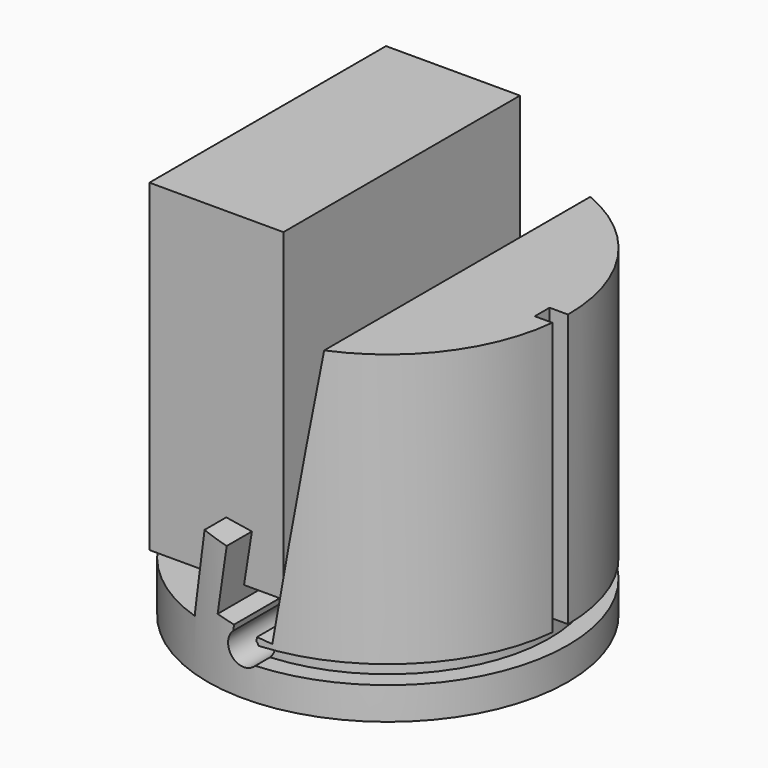
from build123d import *

# Parameters (mm, degrees)
BOX003_W                    = 29
BOX003_H                    = 64
BOX003_DEPTH                = 70
BOX006_W                    = 20
BOX006_H                    = 79
BOX006_DEPTH                = 44
BOX006_PLACEMENT_ANGLE      = 9
BOX_W                       = 12
BOX_H                       = 78
BOX_DEPTH                   = 150
BOX_PLACEMENT_ANGLE         = 9
BOX001_W                    = 12
BOX001_H                    = 78
BOX001_DEPTH                = 150
BOX001_PLACEMENT_ANGLE      = 9
BOX002_W                    = 29
BOX002_H                    = 78
BOX002_DEPTH                = 150
CYLINDER004_R               = 16
CYLINDER004_DEPTH           = 36
CYLINDER004_PLACEMENT_ANGLE = 20
CYLINDER001_R               = 3.5
CYLINDER001_DEPTH           = 47
BOX005_W                    = 5
BOX005_H                    = 45
BOX005_DEPTH                = 10
BOX005_PLACEMENT_ANGLE      = 9
CYLINDER003_R               = 35
CYLINDER003_DEPTH           = 4
BOX004_W                    = 4
BOX004_H                    = 4
BOX004_DEPTH                = 83
CYLINDER002_W               = 39
CYLINDER002_H               = 4
CYLINDER002_ANGLE           = 180
CYLINDER_R                  = 39
CYLINDER_DEPTH              = 70


with BuildPart() as front_hole_small:
    # Box003 → Box003 (new body)
    with BuildSketch(Plane(origin=(-26, -32, 17), x_dir=(1, 0, 0), z_dir=(0, 0, 1))):
        with Locations((14.5, 32)):
            Rectangle(BOX003_W, BOX003_H)
    extrude(amount=BOX003_DEPTH)


with BuildPart() as arm_cutter:
    # Box006 → Box006 (new body)
    with BuildSketch(Plane.XY):
        with Locations((10, 39.5)):
            Rectangle(BOX006_W, BOX006_H)
    extrude(amount=BOX006_DEPTH)


with BuildPart() as arm_cutter_1:
    # Box006 placement: moved
    add(arm_cutter.part.moved(Location((-18, -40, 30))).rotate(Axis((-18, -40, 30), (0, 1, 0)), BOX006_PLACEMENT_ANGLE))


with BuildPart() as phone_model:
    # Box → Box (new body)
    with BuildSketch(Plane.XY):
        with Locations((6, 39)):
            Rectangle(BOX_W, BOX_H)
    extrude(amount=BOX_DEPTH)


with BuildPart() as phone_model_1:
    # Box placement: moved
    add(phone_model.part.moved(Location((-6, -39, 14))).rotate(Axis((-6, -39, 14), (0, 1, 0)), BOX_PLACEMENT_ANGLE))


with BuildPart() as front_hole:
    # Box001 → Box001 (new body)
    with BuildSketch(Plane.XY):
        with Locations((6, 39)):
            Rectangle(BOX001_W, BOX001_H)
    extrude(amount=BOX001_DEPTH)


with BuildPart() as front_hole_1:
    # Box001 placement: moved
    add(front_hole.part.moved(Location((-24, -39, 13))).rotate(Axis((-24, -39, 13), (0, 1, 0)), BOX001_PLACEMENT_ANGLE))


with BuildPart() as front_hole_big:
    # Box002 → Box002 (new body)
    with BuildSketch(Plane(origin=(-41, -39, 11), x_dir=(1, 0, 0), z_dir=(0, 0, 1))):
        with Locations((14.5, 39)):
            Rectangle(BOX002_W, BOX002_H)
    extrude(amount=BOX002_DEPTH)


with BuildPart() as holes:
    # Cylinder004 → Cylinder004 (new body)
    with BuildSketch(Plane.XY):
        Circle(CYLINDER004_R)
    extrude(amount=CYLINDER004_DEPTH)


with BuildPart() as holes_1:
    # Cylinder004 placement: moved
    add(holes.part.moved(Location((-6, 0, 30))).rotate(Axis((-6, 0, 30), (0, 1, 0)), CYLINDER004_PLACEMENT_ANGLE))

    # Fusion: union arm_cutter, phone_model, front_hole, front_hole_big
    add(arm_cutter_1.part)
    add(phone_model_1.part)
    add(front_hole_1.part)
    add(front_hole_big.part)


with BuildPart() as cylinder:
    # Cylinder001 → Cylinder001 (new body)
    with BuildSketch(Plane(origin=(0, 6, 9.5), x_dir=(1, 0, 0), z_dir=(0, -1, 0))):
        Circle(CYLINDER001_R)
    extrude(amount=CYLINDER001_DEPTH)


with BuildPart() as plug_cube:
    # Box005 → Box005 (new body)
    with BuildSketch(Plane.XY):
        with Locations((2.5, 22.5)):
            Rectangle(BOX005_W, BOX005_H)
    extrude(amount=BOX005_DEPTH)


with BuildPart() as plug_cube_1:
    # Box005 placement: moved
    add(plug_cube.part.moved(Location((-2.5, -39, 11))).rotate(Axis((-2.5, -39, 11), (0, 1, 0)), BOX005_PLACEMENT_ANGLE))


with BuildPart() as cord_hole_inner:
    # Cylinder003 → Cylinder003 (new body)
    with BuildSketch(Plane.XY):
        Circle(CYLINDER003_R)
    extrude(amount=CYLINDER003_DEPTH)


with BuildPart() as cube:
    # Box004 → Box004 (new body)
    with BuildSketch(Plane(origin=(35, -4, 0), x_dir=(1, 0, 0), z_dir=(0, 0, 1))):
        with Locations((2, 2)):
            Rectangle(BOX004_W, BOX004_H)
    extrude(amount=BOX004_DEPTH)


with BuildPart() as negative:
    # Cylinder002 → Cylinder002 (revolve)
    with BuildSketch(Plane(origin=(0, 0, 0), x_dir=(0, -1, 0), z_dir=(-1, 0, 0))):
        with Locations((19.5, 2)):
            Rectangle(CYLINDER002_W, CYLINDER002_H)
    revolve(axis=Axis((0, 0, 0), (0, 0, 1)), revolution_arc=CYLINDER002_ANGLE)

    # Fusion001: union Cube
    add(cube.part)

    # Cut001: cut cord_hole_inner
    add(cord_hole_inner.part, mode=Mode.SUBTRACT)


with BuildPart() as negative_1:
    # Cut001 placement: moved
    add(negative.part.moved(Location((0, 0, 7))))

    # Fusion002: union Cylinder, plug_cube
    add(cylinder.part)
    add(plug_cube_1.part)

    # Fusion003: union holes
    add(holes_1.part)


with BuildPart() as cut:
    # Cylinder → Cylinder (new body)
    with BuildSketch(Plane.XY):
        Circle(CYLINDER_R)
    extrude(amount=CYLINDER_DEPTH)

    # Cut: cut negative
    add(negative_1.part, mode=Mode.SUBTRACT)


solid = Compound([front_hole_small.part, cut.part])
